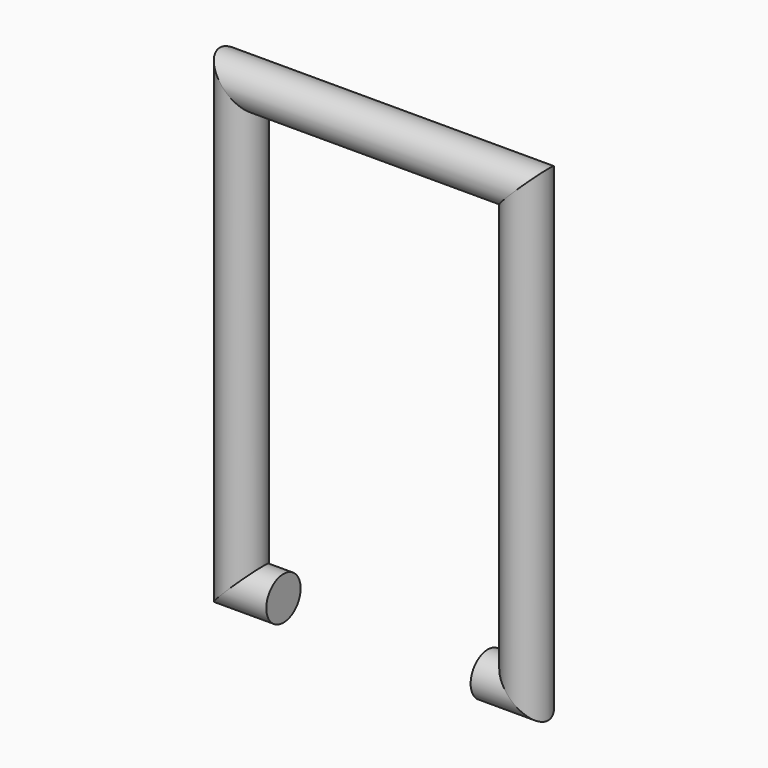
from build123d import *

# Parameters (mm, degrees)
F2_R = 1.905


with BuildPart() as f3:
    # F3: sweep along a path in F0
    with BuildLine(Plane.XZ) as f3_path:
        Line((-9.9292984232, 0), (-13.6707741767, 0))
        Line((-13.6707741767, 0), (-13.6707741767, 39.2854884267))
        Line((-13.6707741767, 39.2854884267), (11.6561325267, 39.2854884267))
        Line((11.6561325267, 39.2854884267), (11.6561325267, 0))
        Line((11.6561325267, 0), (8.2024643198, 0))
    # F2 (on offset) → F3 (sweep)
    with BuildSketch(Plane.YZ.offset(-10.033)):
        Circle(F2_R)
    sweep(path=f3_path.line, transition=Transition.RIGHT)


solid = f3.part
